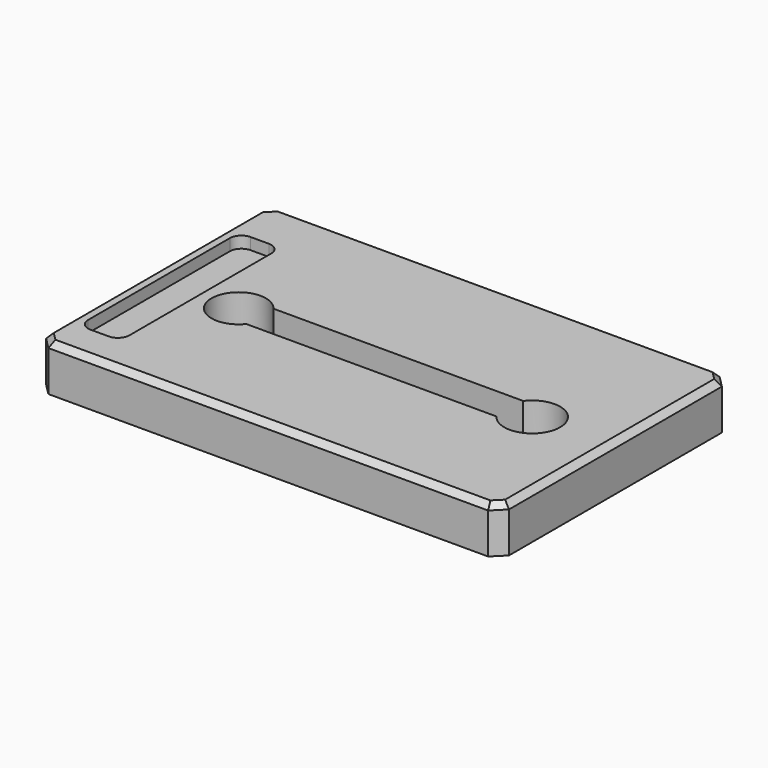
from build123d import *

# Parameters (mm, degrees)
F0_W     = 80
F0_H     = 50
F1_DEPTH = 8
F3_DEPTH = 25.4
F5_DEPTH = 2
F6_SIZE  = 2
F7_SIZE  = 1


with BuildPart() as f1:
    # F0 (on Top) → F1 (new body)
    with BuildSketch(Plane.XY):
        with Locations((-26.7566908151, 1.4298928609)):
            Rectangle(F0_W, F0_H)
    extrude(amount=F1_DEPTH)

    # F2 (on face) → F3 (cut)
    with BuildSketch(Plane.XY.offset(8)):
        with BuildLine():
            ThreePointArc((-3.870154056, -2.8950243141), (4.8331416487, 0), (-3.870154056, 2.8950243141))
            Line((-3.870154056, 2.8950243141), (-47.0229552257, 2.8950243141))
            ThreePointArc((-47.0229552257, 2.8950243141), (-55.4596716368, 0.1073182684), (-47.0969311879, -2.8950243141))
            Line((-47.0969311879, -2.8950243141), (-3.870154056, -2.8950243141))
        make_face()
    extrude(amount=-F3_DEPTH, mode=Mode.SUBTRACT)

    # F4 (on face) → F5 (cut)
    with BuildSketch(Plane.XY.offset(8)):
        with BuildLine():
            ThreePointArc((-57.3456808925, 15.3201337457), (-57.9314673301, 16.734347308), (-59.3456808925, 17.3201337457))
            Line((-59.3456808925, 17.3201337457), (-62.5092031037, 17.3201337457))
            ThreePointArc((-62.5092031037, 17.3201337457), (-63.9234166661, 16.734347308), (-64.5092031037, 15.3201337457))
            Line((-64.5092031037, 15.3201337457), (-64.5092031037, -15.3201337457))
            ThreePointArc((-64.5092031037, -15.3201337457), (-63.9234166661, -16.734347308), (-62.5092031037, -17.3201337457))
            Line((-62.5092031037, -17.3201337457), (-59.3456808925, -17.3201337457))
            ThreePointArc((-59.3456808925, -17.3201337457), (-57.9314673301, -16.734347308), (-57.3456808925, -15.3201337457))
            Line((-57.3456808925, -15.3201337457), (-57.3456808925, 15.3201337457))
        make_face()
    extrude(amount=-F5_DEPTH, mode=Mode.SUBTRACT)

    # F6
    f6_edges = [f1.edges().sort_by_distance(p)[0] for p in [
        (13.243309, 26.429893, 4),
        (13.243309, -23.570107, 4),
        (-66.756691, -23.570107, 4),
        (-66.756691, 26.429893, 4),
    ]]
    chamfer(f6_edges, length=F6_SIZE)

    # F7
    f7_edges = [f1.edges().sort_by_distance(p)[0] for p in [
        (-66.756691, 1.429893, 8),
        (-26.756691, 26.429893, 8),
        (-65.756691, 25.429893, 8),
        (-65.756691, -22.570107, 8),
        (13.243309, 1.429893, 8),
        (12.243309, 25.429893, 8),
        (12.243309, -22.570107, 8),
        (-26.756691, -23.570107, 8),
    ]]
    chamfer(f7_edges, length=F7_SIZE)


solid = f1.part
